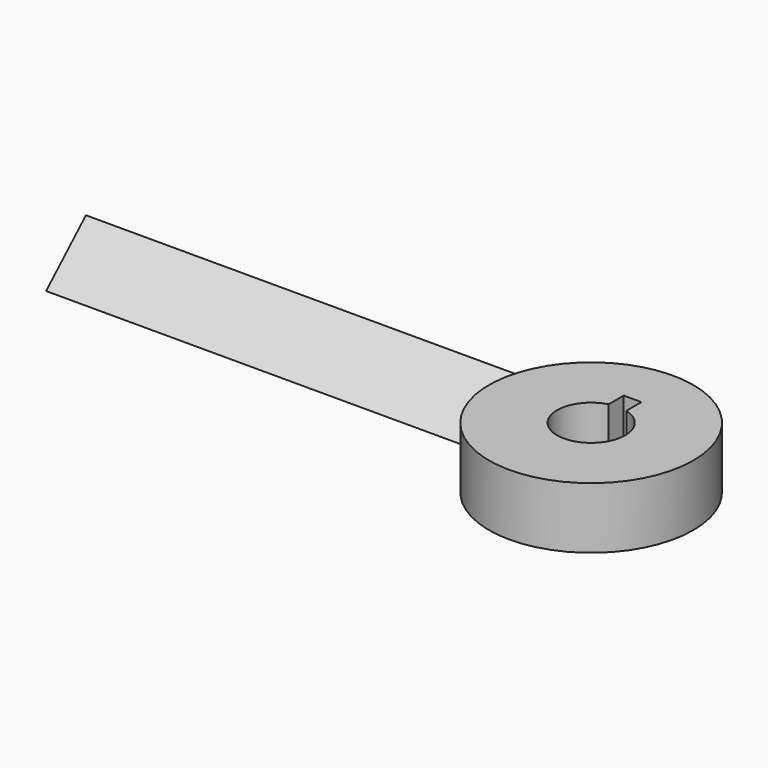
from build123d import *

# Parameters (mm, degrees)
F0_R     = 15
F1_DEPTH = 9
F4_DEPTH = 73


with BuildPart() as f1:
    # F0 (on Top) → F1 (new body)
    with BuildSketch(Plane.XY):
        Circle(F0_R)
        with BuildLine():
            ThreePointArc((1.3, 4.828043), (3.968627, 3.041381), (5, 0))
            ThreePointArc((5, 0), (-3.041381, -3.968627), (-1.3, 4.828043))
            Line((-1.3, 4.828043), (-1.3, 7.6))
            Line((-1.3, 7.6), (0, 7.6))
            Line((0, 7.6), (1.3, 7.6))
            Line((1.3, 7.6), (1.3, 4.828043))
        make_face(mode=Mode.SUBTRACT)
    extrude(amount=F1_DEPTH)

    # F3 (on offset) → F4 (join)
    with BuildSketch(Plane.YZ.offset(-80)):
        Polygon((7.315706, 6.817657), (0, 0), (7.315706, 0), align=None)
    extrude(amount=F4_DEPTH)


solid = f1.part
